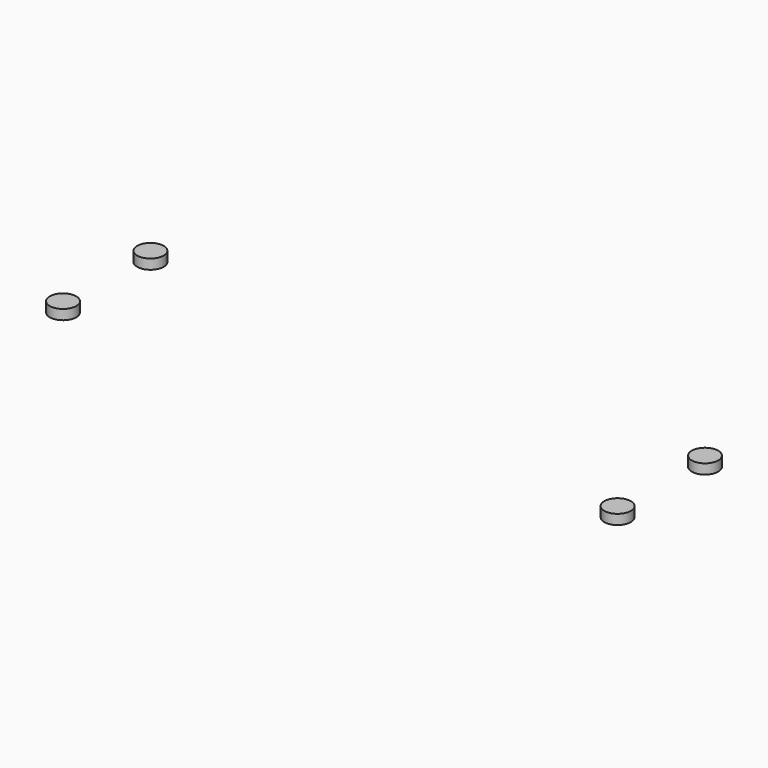
from build123d import *

# Parameters (mm, degrees)
CYLINDER026_R     = 2
CYLINDER026_DEPTH = 1.5
CYLINDER025_R     = 2
CYLINDER025_DEPTH = 1.5
CYLINDER024_R     = 2
CYLINDER024_DEPTH = 1.5
CYLINDER027_R     = 2
CYLINDER027_DEPTH = 1.5


with BuildPart() as cylinder026:
    # Cylinder026 → Cylinder026 (new body)
    with BuildSketch(Plane(origin=(-41.91, -8.26, 0), x_dir=(1, 0, 0), z_dir=(0, 0, 1))):
        Circle(CYLINDER026_R)
    extrude(amount=CYLINDER026_DEPTH)


with BuildPart() as cylinder025:
    # Cylinder025 → Cylinder025 (new body)
    with BuildSketch(Plane(origin=(-41.91, 8.255, 0), x_dir=(1, 0, 0), z_dir=(0, 0, 1))):
        Circle(CYLINDER025_R)
    extrude(amount=CYLINDER025_DEPTH)


with BuildPart() as cylinder024:
    # Cylinder024 → Cylinder024 (new body)
    with BuildSketch(Plane(origin=(41.91, -8.26, 0), x_dir=(1, 0, 0), z_dir=(0, 0, 1))):
        Circle(CYLINDER024_R)
    extrude(amount=CYLINDER024_DEPTH)


with BuildPart() as fusion012:
    # Cylinder027 → Cylinder027 (new body)
    with BuildSketch(Plane(origin=(41.91, 8.26, 0), x_dir=(1, 0, 0), z_dir=(0, 0, 1))):
        Circle(CYLINDER027_R)
    extrude(amount=CYLINDER027_DEPTH)

    # Fusion012: union Cylinder026, Cylinder025, Cylinder024
    add(cylinder026.part)
    add(cylinder025.part)
    add(cylinder024.part)


solid = fusion012.part
